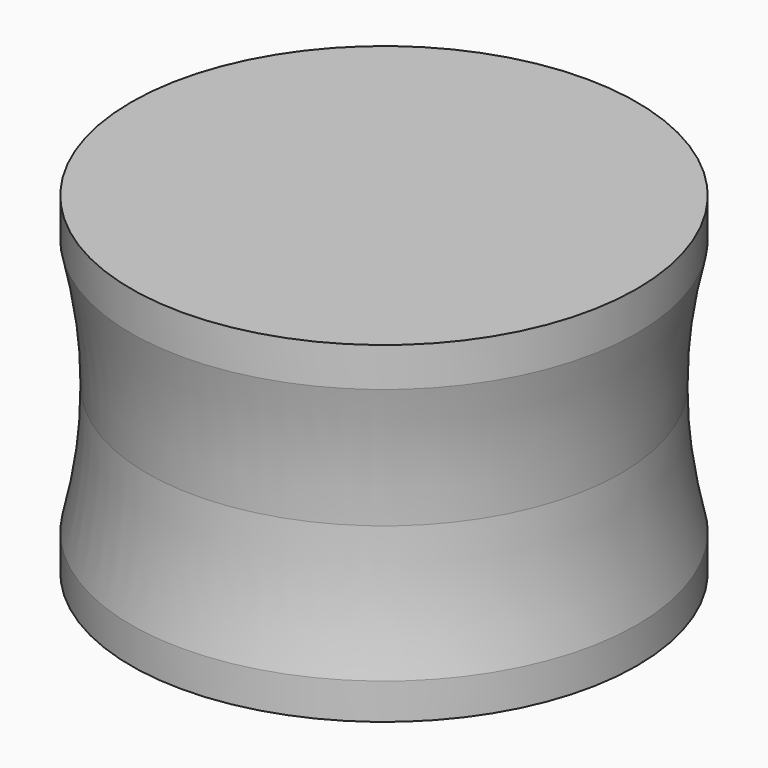
from build123d import *

# Parameters (mm, degrees)
F0_R     = 10.16
F1_DEPTH = 13.335
F3_R     = 21.264857766


with BuildPart() as f1:
    # F0 (on Top) → F1 (new body)
    with BuildSketch(Plane.XY):
        Circle(F0_R)
    extrude(amount=F1_DEPTH)

    # F3 (on Front) → F5 (revolve, cut)
    with BuildSketch(Plane.XZ):
        with Locations((-30.789857766, 6.604)):
            Circle(F3_R)
    revolve(axis=Axis((0, 0, 7.1092285216), (0, 0, -1)), mode=Mode.SUBTRACT)


solid = f1.part
